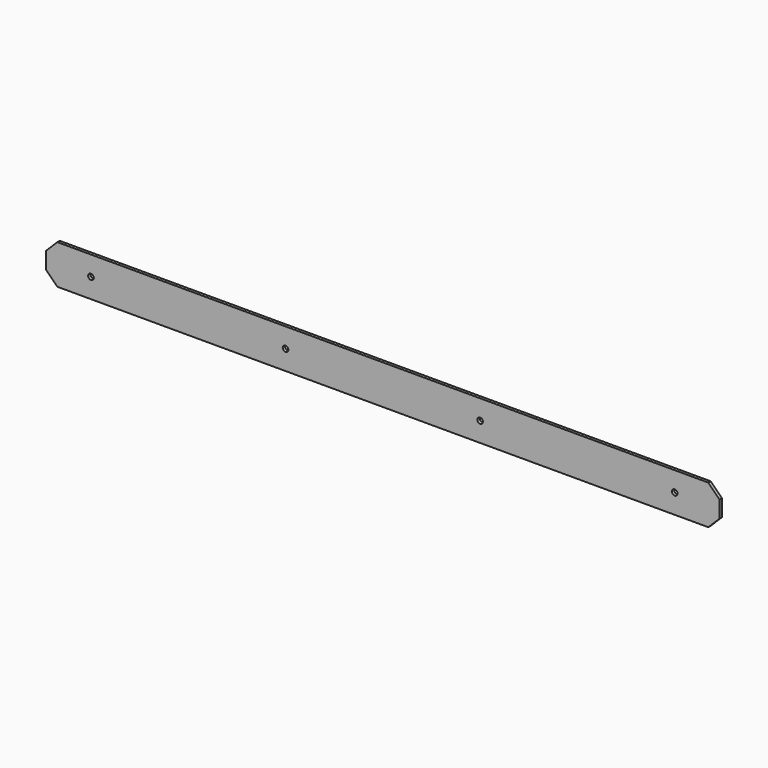
from build123d import *

# Parameters (mm, degrees)
F0_W     = 762
F0_H     = 44.45
F0_R     = 3.175
F1_DEPTH = 3.35
F2_SIZE  = 12.7


with BuildPart() as f1:
    # F0 (on Front) → F1 (new body)
    with BuildSketch(Plane.XZ):
        Rectangle(F0_W, F0_H)
        with Locations((-330.2, 0)):
            Circle(F0_R, mode=Mode.SUBTRACT)
        with Locations((-110.066667, 0)):
            Circle(F0_R, mode=Mode.SUBTRACT)
        with Locations((110.066667, 0)):
            Circle(F0_R, mode=Mode.SUBTRACT)
        with Locations((330.2, 0)):
            Circle(F0_R, mode=Mode.SUBTRACT)
    extrude(amount=F1_DEPTH)

    # F2
    f2_edges = [f1.edges().sort_by_distance(p)[0] for p in [
        (381, -1.675, -22.225),
        (381, -1.675, 22.225),
        (-381, -1.675, 22.225),
        (-381, -1.675, -22.225),
    ]]
    chamfer(f2_edges, length=F2_SIZE)


solid = f1.part
